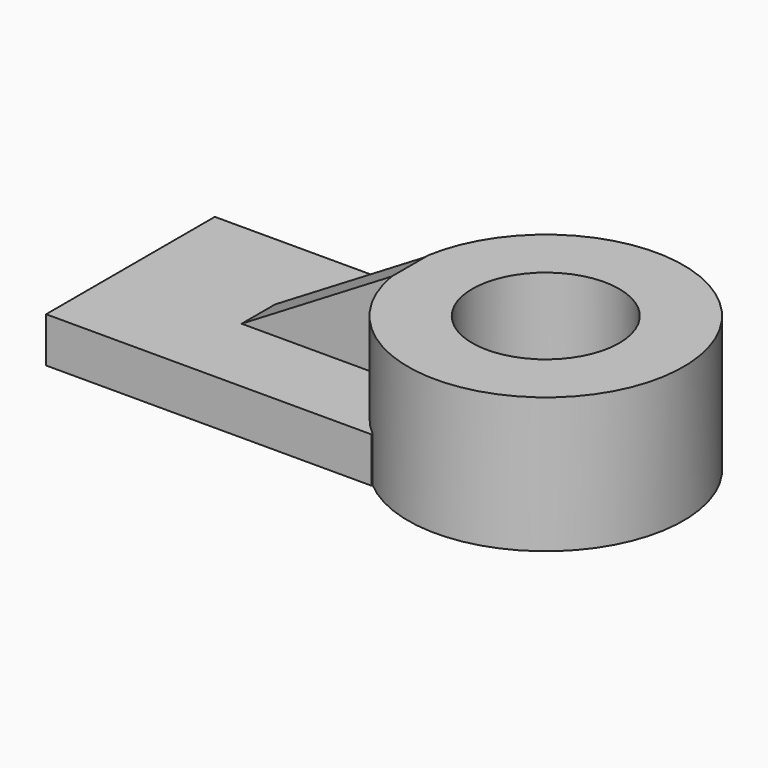
from build123d import *

# Parameters (mm, degrees)
F1_DEPTH = 12.7
F2_R     = 38.728544
F3_DEPTH = 38.1
F4_W     = 42.172854
F4_H     = 11.782876
F5_DEPTH = 25.4
F7_DEPTH = 25.4
F8_R     = 20.660809
F9_DEPTH = 50.8


with BuildPart() as f1:
    # F0 (on Top) → F1 (new body)
    with BuildSketch(Plane.XY):
        with BuildLine():
            Line((38.757574, 29.522406), (-52.804671, 29.522406))
            Line((-52.804671, 29.522406), (-52.804671, -29.807648))
            Line((-52.804671, -29.807648), (38.757574, -29.807648))
            Line((38.757574, -29.807648), (38.757574, -29.413341))
            ThreePointArc((38.757574, -29.413341), (26.480182, 0), (38.757574, 29.413341))
            Line((38.757574, 29.413341), (38.757574, 29.522406))
        make_face()
        with BuildLine():
            Line((38.757574, 29.522406), (-52.804671, 29.522406))
            Line((-52.804671, 29.522406), (-52.804671, -29.807648))
            Line((-52.804671, -29.807648), (38.757574, -29.807648))
            Line((38.757574, -29.807648), (38.757574, -29.413341))
            ThreePointArc((38.757574, -29.413341), (26.480182, 0), (38.757574, 29.413341))
            Line((38.757574, 29.413341), (38.757574, 29.522406))
        make_face()
    extrude(amount=F1_DEPTH)

    # F2 (on Top) → F3 (join)
    with BuildSketch(Plane.XY):
        with Locations((63.900545, 0)):
            Circle(F2_R)
    extrude(amount=F3_DEPTH)

    # F4 (on face) → F5 (join)
    with BuildSketch(Plane.XY.offset(12.7)):
        with Locations((4.635942, -0.614486)):
            Rectangle(F4_W, F4_H)
    extrude(amount=F5_DEPTH)

    # F6 (on face) → F7 (cut)
    with BuildSketch(Plane.XZ.offset(6.505924)):
        Polygon((-16.450485, 12.7), (25.722369, 38.1), (-16.450485, 38.1), align=None)
    extrude(amount=-F7_DEPTH, mode=Mode.SUBTRACT)

    # F8 (on face) → F9 (cut)
    with BuildSketch(Plane.XY.offset(38.1)):
        with Locations((63.900545, 0)):
            Circle(F8_R)
    extrude(amount=-F9_DEPTH, mode=Mode.SUBTRACT)


solid = f1.part
